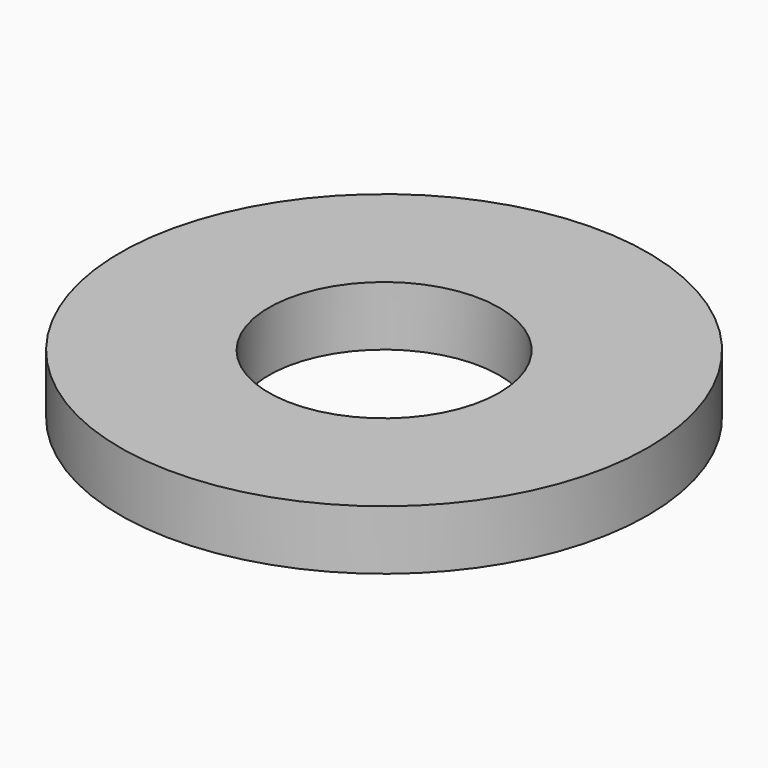
from build123d import *

# Parameters (mm, degrees)
SKETCH_R   = 8.875
SKETCH_R_2 = 3.875
PAD_DEPTH  = 2


with BuildPart() as part:
    # Sketch → Pad (new body)
    with BuildSketch(Plane.XY):
        Circle(SKETCH_R)
        Circle(SKETCH_R_2, mode=Mode.SUBTRACT)
    extrude(amount=PAD_DEPTH)


solid = part.part
